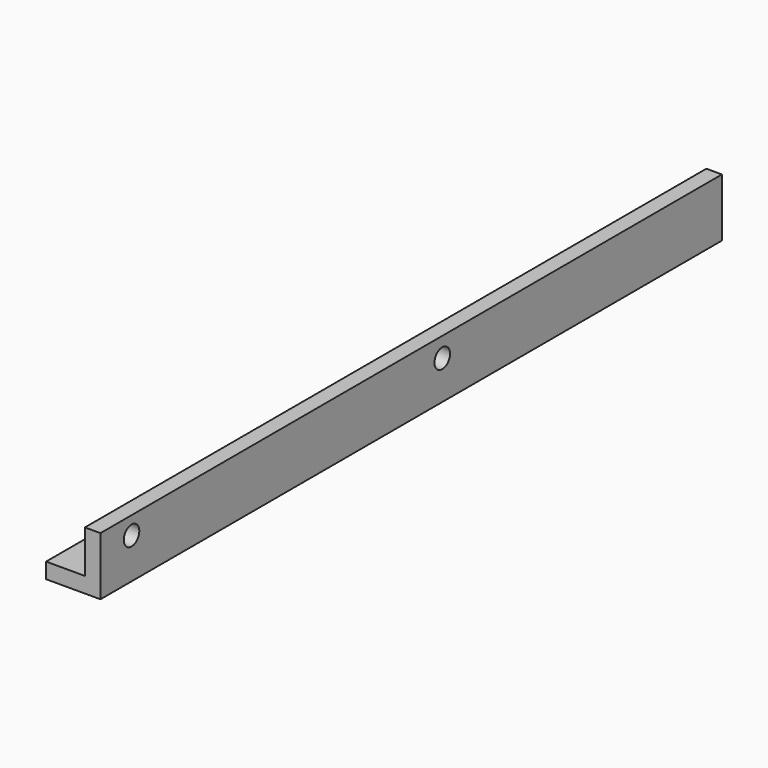
from build123d import *

# Parameters (mm, degrees)
F1_DEPTH = 254
F2_R     = 3.175
F3_DEPTH = 25.4


with BuildPart() as f1:
    # F0 (on Front) → F1 (new body)
    with BuildSketch(Plane.XZ):
        Polygon((-17.78, 0), (0, 0), (0, 19.05), (-5.08, 19.05), (-5.08, 5.08), (-17.78, 5.08), align=None)
    extrude(amount=F1_DEPTH)

    # F2 (on face) → F3 (cut)
    with BuildSketch(Plane.YZ):
        with Locations((-241.3, 13.209414)):
            Circle(F2_R)
        with Locations((-114.3, 12.615733)):
            Circle(F2_R)
    extrude(amount=-F3_DEPTH, mode=Mode.SUBTRACT)


solid = f1.part
